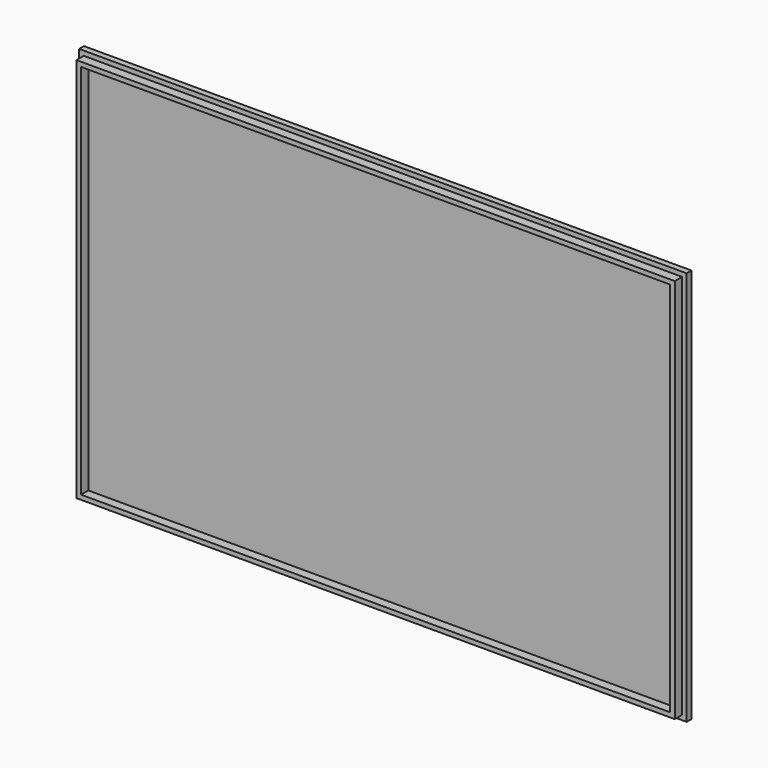
from build123d import *

# Parameters (mm, degrees)
F0_W     = 196.96
F0_H     = 126.96
F0_W_2   = 193.96
F0_H_2   = 123.96
F1_DEPTH = 5
F0_W_3   = 200
F0_H_3   = 130
F2_DEPTH = 2


with BuildPart() as f1:
    # F0 (on Front) → F1 (new body)
    with BuildSketch(Plane.XZ):
        with Locations((47.032271, -23.353826)):
            Rectangle(F0_W, F0_H)
        with Locations((47.032271, -23.353826)):
            Rectangle(F0_W_2, F0_H_2, mode=Mode.SUBTRACT)
    extrude(amount=F1_DEPTH)

    # F0 (on Front) → F2 (join)
    with BuildSketch(Plane.XZ):
        with Locations((47.032271, -23.353826)):
            Rectangle(F0_W_3, F0_H_3)
        with Locations((47.032271, -23.353826)):
            Rectangle(F0_W, F0_H, mode=Mode.SUBTRACT)
        with Locations((47.032271, -23.353826)):
            Rectangle(F0_W_2, F0_H_2)
    extrude(amount=F2_DEPTH)


solid = f1.part
